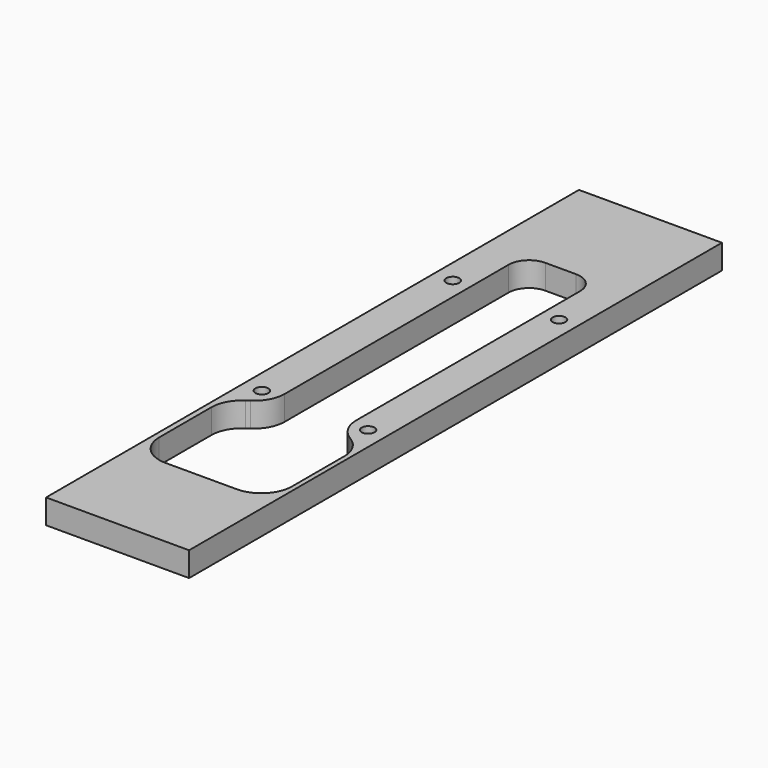
from build123d import *

# Parameters (mm, degrees)
F0_W     = 70
F0_H     = 326
F0_W_2   = 17
F0_H_2   = 17
F0_R     = 3.15
F1_DEPTH = 12
F2_R     = 15
F3_R     = 10


with BuildPart() as f1:
    # F0 (on Top) → F1 (new body)
    with BuildSketch(Plane.XY):
        Rectangle(F0_W, F0_H)
        Polygon((32.7086956522, -112.1642902674), (17.7086956522, -112.1642902674), (-17.2913043478, -112.1642902674), (-32.2913043478, -112.1642902674), (-32.2913043478, -57.1642902674), (-34.2913043478, -47.1642902674), (-34.2913043478, -32.1642902674), (-17.2913043478, -32.1642902674), (-17.2913043478, 65.8357097326), (-34.2913043478, 65.8357097326), (-34.2913043478, 82.8357097326), (-17.2913043478, 82.8357097326), (-17.2913043478, 107.8357097326), (17.7086956522, 107.8357097326), (17.7086956522, 82.8357097326), (34.7086956522, 82.8357097326), (34.7086956522, 65.8357097326), (17.7086956522, 65.8357097326), (17.7086956522, -32.1642902674), (34.7086956522, -32.1642902674), (34.7086956522, -47.1642902674), (32.7086956522, -57.1642902674), align=None, mode=Mode.SUBTRACT)
        Polygon((-34.2913043478, -47.1642902674), (-32.2913043478, -57.1642902674), (-17.2913043478, -47.1642902674), (-17.2913043478, -32.1642902674), (-34.2913043478, -32.1642902674), align=None)
        Polygon((-25.7913043478, -36.608650855), (-20.6913043478, -39.5531372279), (-20.6913043478, -45.4421099736), (-25.7913043478, -48.3865963465), (-30.8913043478, -45.4421099736), (-30.8913043478, -39.5531372279), align=None, mode=Mode.SUBTRACT)
        Polygon((17.7086956522, -47.1642902674), (32.7086956522, -57.1642902674), (34.7086956522, -47.1642902674), (34.7086956522, -32.1642902674), (17.7086956522, -32.1642902674), align=None)
        Polygon((31.3086956522, -45.4421099736), (26.2086956522, -48.3865963465), (21.1086956522, -45.4421099736), (21.1086956522, -39.5531372279), (26.2086956522, -36.608650855), (31.3086956522, -39.5531372279), align=None, mode=Mode.SUBTRACT)
        with Locations((-25.7913043478, 74.3357097326)):
            Rectangle(F0_W_2, F0_H_2)
        Polygon((-20.6913043478, 77.2801961054), (-20.6913043478, 71.3912233597), (-25.7913043478, 68.4467369868), (-30.8913043478, 71.3912233597), (-30.8913043478, 77.2801961054), (-25.7913043478, 80.2246824783), align=None, mode=Mode.SUBTRACT)
        with Locations((26.2086956522, 74.3357097326)):
            Rectangle(F0_W_2, F0_H_2)
        Polygon((31.3086956522, 71.3912233597), (26.2086956522, 68.4467369868), (21.1086956522, 71.3912233597), (21.1086956522, 77.2801961054), (26.2086956522, 80.2246824783), (31.3086956522, 77.2801961054), align=None, mode=Mode.SUBTRACT)
        Polygon((-20.6913043478, -45.4421099736), (-20.6913043478, -39.5531372279), (-25.7913043478, -36.608650855), (-30.8913043478, -39.5531372279), (-30.8913043478, -45.4421099736), (-25.7913043478, -48.3865963465), align=None)
        with Locations((-25.7913043478, -42.4976236008)):
            Circle(F0_R, mode=Mode.SUBTRACT)
        Polygon((21.1086956522, -45.4421099736), (26.2086956522, -48.3865963465), (31.3086956522, -45.4421099736), (31.3086956522, -39.5531372279), (26.2086956522, -36.608650855), (21.1086956522, -39.5531372279), align=None)
        with Locations((26.2086956522, -42.4976236008)):
            Circle(F0_R, mode=Mode.SUBTRACT)
        Polygon((-25.7913043478, 68.4467369868), (-20.6913043478, 71.3912233597), (-20.6913043478, 77.2801961054), (-25.7913043478, 80.2246824783), (-30.8913043478, 77.2801961054), (-30.8913043478, 71.3912233597), align=None)
        with Locations((-25.7913043478, 74.3357097326)):
            Circle(F0_R, mode=Mode.SUBTRACT)
        Polygon((21.1086956522, 71.3912233597), (26.2086956522, 68.4467369868), (31.3086956522, 71.3912233597), (31.3086956522, 77.2801961054), (26.2086956522, 80.2246824783), (21.1086956522, 77.2801961054), align=None)
        with Locations((26.2086956522, 74.3357097326)):
            Circle(F0_R, mode=Mode.SUBTRACT)
    extrude(amount=F1_DEPTH)

    # F2
    f2_edges = [f1.edges().sort_by_distance(p)[0] for p in [
        (-32.291304, -57.16429, 6),
        (-17.291304, -47.16429, 6),
        (17.708696, -47.16429, 6),
        (32.708696, -57.16429, 6),
        (32.708696, -112.16429, 6),
        (-32.291304, -112.16429, 6),
    ]]
    fillet(f2_edges, radius=F2_R)

    # F3
    f3_edges = [f1.edges().sort_by_distance(p)[0] for p in [
        (17.708696, 107.83571, 6),
        (-17.291304, 107.83571, 6),
    ]]
    fillet(f3_edges, radius=F3_R)


solid = f1.part
